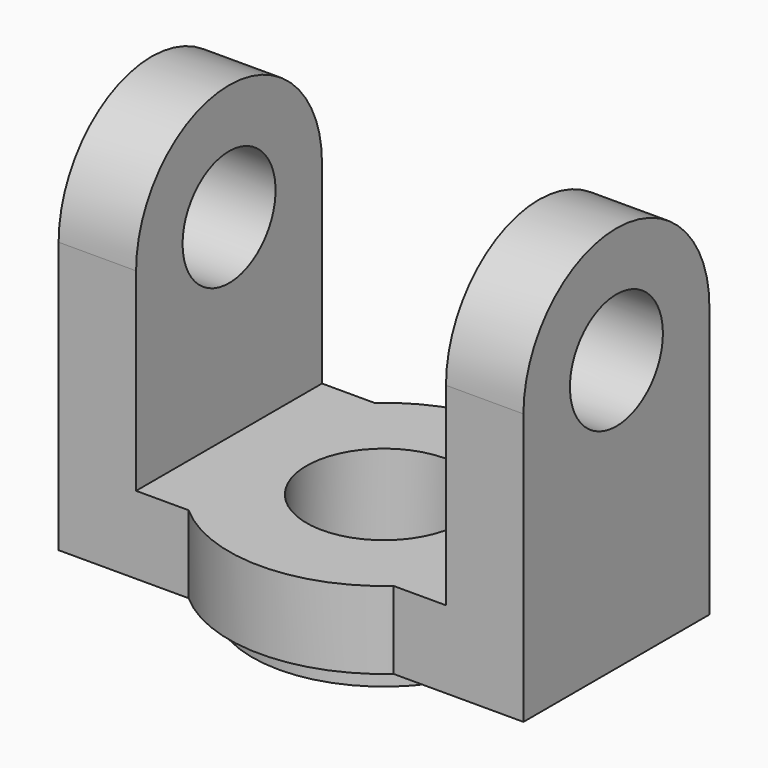
from build123d import *

# Parameters (mm, degrees)
F0_R     = 10
F1_DEPTH = 10
F2_R     = 17
F2_R_2   = 10
F3_DEPTH = 3
F4_R     = 7.5
F5_DEPTH = 10
F6_R     = 7.5
F7_DEPTH = 10


with BuildPart() as f1:
    # F0 (on Top) → F1 (new body)
    with BuildSketch(Plane.XY):
        with BuildLine():
            Line((6.7712434447, 0), (0, 0))
            Line((0, 0), (0, -15))
            ThreePointArc((0, -15), (1.7712434447, -6.7712434447), (6.7712434447, 0))
        make_face()
        with BuildLine():
            ThreePointArc((6.7712434447, -30), (1.7712434447, -23.2287565553), (0, -15))
            Line((0, -15), (0, -30))
            Line((0, -30), (6.7712434447, -30))
        make_face()
        with BuildLine():
            Line((40, 0), (33.2287565553, 0))
            ThreePointArc((33.2287565553, 0), (38.2287565553, -6.7712434447), (40, -15))
            Line((40, -15), (40, 0))
        make_face()
        with BuildLine():
            Line((40, -30), (40, -15))
            ThreePointArc((40, -15), (38.2287565553, -23.2287565553), (33.2287565553, -30))
            Line((33.2287565553, -30), (40, -30))
        make_face()
        with BuildLine():
            Line((33.2287565553, 0), (6.7712434447, 0))
            ThreePointArc((6.7712434447, 0), (1.7712434447, -6.7712434447), (0, -15))
            ThreePointArc((0, -15), (1.7712434447, -23.2287565553), (6.7712434447, -30))
            Line((6.7712434447, -30), (33.2287565553, -30))
            ThreePointArc((33.2287565553, -30), (38.2287565553, -23.2287565553), (40, -15))
            ThreePointArc((40, -15), (38.2287565553, -6.7712434447), (33.2287565553, 0))
        make_face()
        with Locations((20, -15)):
            Circle(F0_R, mode=Mode.SUBTRACT)
        with BuildLine():
            ThreePointArc((33.2287565553, 0), (20, 5), (6.7712434447, 0))
            Line((6.7712434447, 0), (33.2287565553, 0))
        make_face()
        with BuildLine():
            Line((33.2287565553, -30), (6.7712434447, -30))
            ThreePointArc((6.7712434447, -30), (20, -35), (33.2287565553, -30))
        make_face()
    extrude(amount=F1_DEPTH)

    # F2 (on face) → F3 (join)
    with BuildSketch(Plane(origin=(0, 0, 0), x_dir=(1, 0, 0), z_dir=(0, 0, -1))):
        with Locations((20, 15)):
            Circle(F2_R)
        with Locations((20, 15)):
            Circle(F2_R_2, mode=Mode.SUBTRACT)
    extrude(amount=F3_DEPTH)

    # F4 (on face) → F5 (join)
    with BuildSketch(Plane.YZ.offset(40)):
        with BuildLine():
            Line((-30, 35), (-30, 0))
            Line((-30, 0), (0, 0))
            Line((0, 0), (0, 35))
            ThreePointArc((0, 35), (-15, 50), (-30, 35))
        make_face()
        with Locations((-15, 35)):
            Circle(F4_R, mode=Mode.SUBTRACT)
    extrude(amount=F5_DEPTH)

    # F6 (on face) → F7 (join)
    with BuildSketch(Plane(origin=(0, 0, 0), x_dir=(0, -1, 0), z_dir=(-1, 0, 0))):
        with BuildLine():
            ThreePointArc((30, 35), (15, 50), (0, 35))
            Line((0, 35), (0, 0))
            Line((0, 0), (30, 0))
            Line((30, 0), (30, 35))
        make_face()
        with Locations((15, 35)):
            Circle(F6_R, mode=Mode.SUBTRACT)
    extrude(amount=F7_DEPTH)


solid = f1.part
